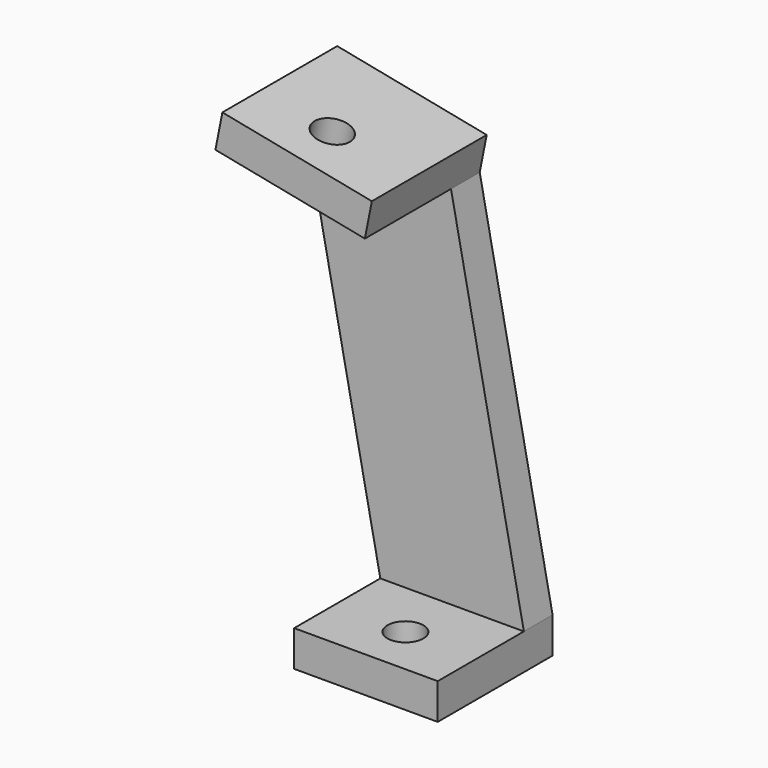
from build123d import *

# Parameters (mm, degrees)
F0_W     = 50.8
F0_H     = 12.7
F1_DEPTH = 50.8
F2_DEPTH = 12.7
F3_R     = 6.35
F4_DEPTH = 12.7
F5_R     = 6.35
F6_DEPTH = 12.7


with BuildPart() as f1:
    # F0 (on Front) → F1 (new body)
    with BuildSketch(Plane.XZ):
        with Locations((0, 6.35)):
            Rectangle(F0_W, F0_H)
    extrude(amount=F1_DEPTH)



with BuildPart() as f1b:
    # F0 (on Front) → F1, piece 2 (new body)
    with BuildSketch(Plane.XZ):
        Polygon((-50.8, 165.1), (-53.2678634281, 152.6420848413), (-0.3815758649, 142.1655216876), (2.0862875631, 154.6234368462), align=None)
    extrude(amount=F1_DEPTH)


with BuildPart() as f1_1:
    add(f1.part)

    add(f1b.part)  # F2 merges F1b
    # F0 (on Front) → F2 (join)
    with BuildSketch(Plane.XZ):
        Polygon((-53.2678634281, 152.6420848413), (-25.4, 12.7), (25.4, 12.7), (-0.3815758649, 142.1655216876), align=None)
    extrude(amount=F2_DEPTH)

    # F3 (on face) → F4 (cut, through all)
    with BuildSketch(Plane(origin=(0, 0, 0), x_dir=(1, 0, 0), z_dir=(0, 0, -1))):
        with Locations((0, 33.3375)):
            Circle(F3_R)
    extrude(amount=-F4_DEPTH, mode=Mode.SUBTRACT)

    # F5 (on face) → F6 (cut, through all)
    with BuildSketch(Plane(origin=(29.5524592231, 0, 149.1824975169), x_dir=(0.9809382015, 0, -0.194319955), z_dir=(0.194319955, 0, 0.9809382015))):
        with Locations((-56.5138851996, -33.3375)):
            Circle(F5_R)
    extrude(amount=-F6_DEPTH, mode=Mode.SUBTRACT)


solid = f1_1.part
